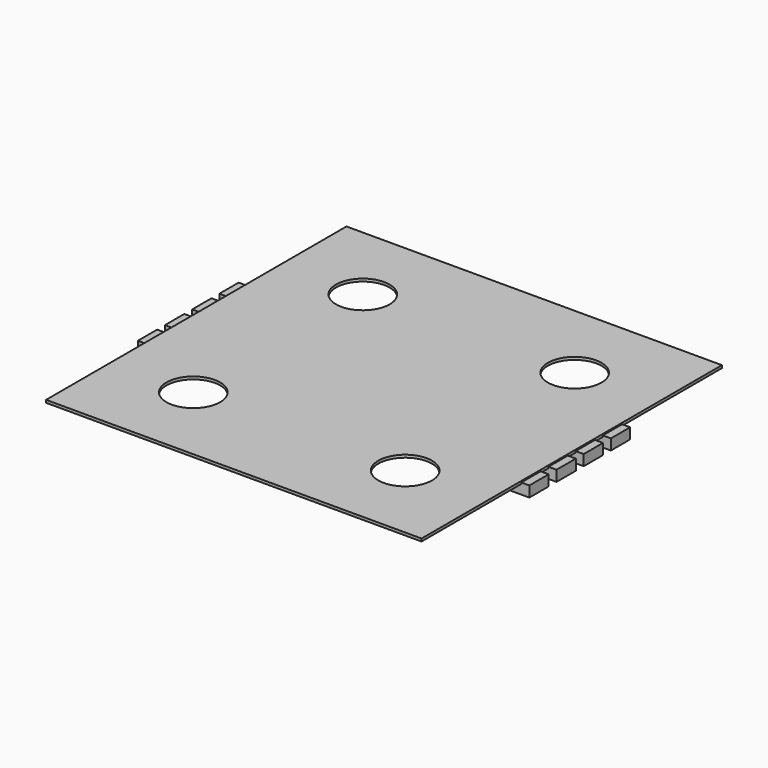
from build123d import *

# Parameters (mm, degrees)
SKETCH004_W                     = 28
SKETCH004_H                     = 28
SKETCH004_R                     = 2
PAD004_DEPTH                    = 0.2
SKETCH005_W                     = 3.5
SKETCH005_H                     = 1.8
PAD005_DEPTH                    = 0.8
SKETCH005_LINEARPATTERN003_2_W  = 3.5
SKETCH005_LINEARPATTERN003_2_H  = 1.8
PAD005_LINEARPATTERN003_2_DEPTH = 0.8
SKETCH005_LINEARPATTERN003_3_W  = 3.5
SKETCH005_LINEARPATTERN003_3_H  = 1.8
PAD005_LINEARPATTERN003_3_DEPTH = 0.8
SKETCH005_LINEARPATTERN003_4_W  = 3.5
SKETCH005_LINEARPATTERN003_4_H  = 1.8
PAD005_LINEARPATTERN003_4_DEPTH = 0.8


with BuildPart() as part:
    # Sketch004 → Pad004 (new body)
    with BuildSketch(Plane.XY.offset(0.5)):
        Rectangle(SKETCH004_W, SKETCH004_H)
        with Locations((-7.9, 7.9)):
            Circle(SKETCH004_R, mode=Mode.SUBTRACT)
        with Locations((7.9, 7.9)):
            Circle(SKETCH004_R, mode=Mode.SUBTRACT)
        with Locations((7.9, -7.9)):
            Circle(SKETCH004_R, mode=Mode.SUBTRACT)
        with Locations((-7.9, -7.9)):
            Circle(SKETCH004_R, mode=Mode.SUBTRACT)
    extrude(amount=PAD004_DEPTH)

    # Sketch005 → Pad005 (join)
    with BuildSketch(Plane.XY.offset(-0.2)):
        with Locations((-12.85, -3.8)):
            Rectangle(SKETCH005_W, SKETCH005_H)
    pad005 = extrude(amount=PAD005_DEPTH)

    # Sketch005 LinearPattern003 2 → Pad005 LinearPattern003 2 (add)
    with BuildSketch(Plane(origin=(0, 2.5333333333, -0.2), x_dir=(1, 0, 0), z_dir=(0, 0, 1))):
        with Locations((-12.85, -3.8)):
            Rectangle(SKETCH005_LINEARPATTERN003_2_W, SKETCH005_LINEARPATTERN003_2_H)
    pad005_linearpattern003_2 = extrude(amount=PAD005_LINEARPATTERN003_2_DEPTH)

    # Sketch005 LinearPattern003 3 → Pad005 LinearPattern003 3 (add)
    with BuildSketch(Plane(origin=(0, 5.0666666667, -0.2), x_dir=(1, 0, 0), z_dir=(0, 0, 1))):
        with Locations((-12.85, -3.8)):
            Rectangle(SKETCH005_LINEARPATTERN003_3_W, SKETCH005_LINEARPATTERN003_3_H)
    pad005_linearpattern003_3 = extrude(amount=PAD005_LINEARPATTERN003_3_DEPTH)

    # Sketch005 LinearPattern003 4 → Pad005 LinearPattern003 4 (add)
    with BuildSketch(Plane(origin=(0, 7.6, -0.2), x_dir=(1, 0, 0), z_dir=(0, 0, 1))):
        with Locations((-12.85, -3.8)):
            Rectangle(SKETCH005_LINEARPATTERN003_4_W, SKETCH005_LINEARPATTERN003_4_H)
    pad005_linearpattern003_4 = extrude(amount=PAD005_LINEARPATTERN003_4_DEPTH)

    # Mirrored001: Pad005, Pad005 LinearPattern003 2, Pad005 LinearPattern003 3, Pad005 LinearPattern003 4 across YZ
    add(pad005.mirror(Plane.YZ))
    add(pad005_linearpattern003_2.mirror(Plane.YZ))
    add(pad005_linearpattern003_3.mirror(Plane.YZ))
    add(pad005_linearpattern003_4.mirror(Plane.YZ))


solid = part.part
